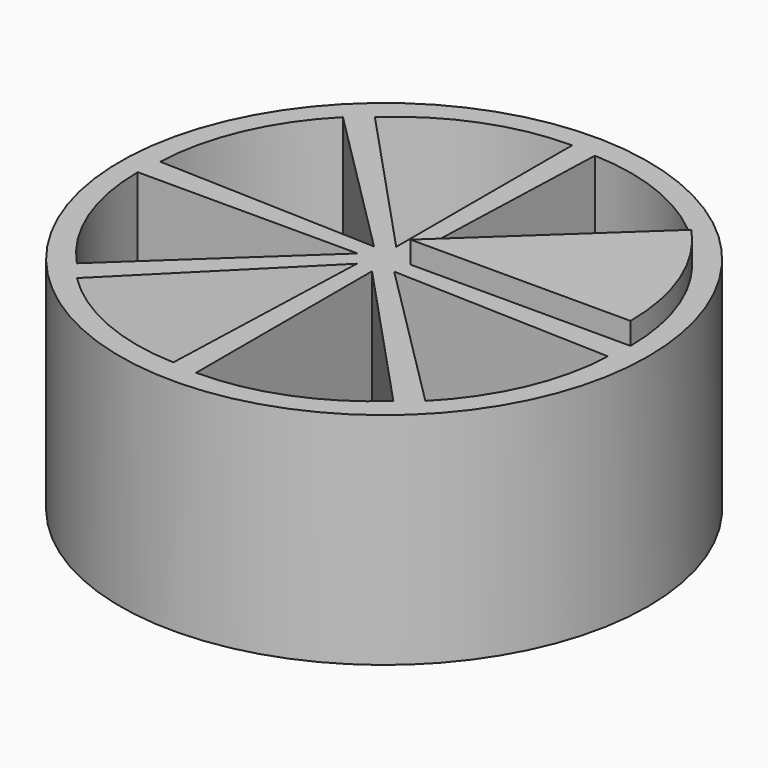
from build123d import *

# Parameters (mm, degrees)
CYLINDER001_W     = 10
CYLINDER001_H     = 10
CYLINDER001_ANGLE = 43
ARRAY_COUNT       = 8
CYLINDER_R        = 12
CYLINDER_DEPTH    = 10
CYLINDER002_W     = 10
CYLINDER002_H     = 10
CYLINDER002_ANGLE = 43


with BuildPart() as array:
    # Cylinder001 → Cylinder001 (revolve)
    with BuildSketch(Plane(origin=(1, 0.25, 1), x_dir=(1, 0, 0), z_dir=(0, -1, 0))):
        with Locations((5, 5)):
            Rectangle(CYLINDER001_W, CYLINDER001_H)
    revolve(axis=Axis((1, 0.25, 1), (0, 0, 1)), revolution_arc=CYLINDER001_ANGLE)

    # Array: Array ×8 about axis
    array_axis = Axis((0, 0, 1), (0, 0, 1))


with BuildPart() as array_1:
    add(array.part)
    for i in range(1, ARRAY_COUNT):
        add(array.part.rotate(array_axis, i * 360 / ARRAY_COUNT))


with BuildPart() as caixa:
    # Cylinder → Cylinder (new body)
    with BuildSketch(Plane.XY):
        Circle(CYLINDER_R)
    extrude(amount=CYLINDER_DEPTH)

    # Cut: cut Array
    add(array_1.part, mode=Mode.SUBTRACT)


with BuildPart() as obj1:
    # Cylinder002 → Cylinder002 (revolve)
    with BuildSketch(Plane(origin=(1, 0.25, 1), x_dir=(1, 0, 0), z_dir=(0, -1, 0))):
        with Locations((5, 5)):
            Rectangle(CYLINDER002_W, CYLINDER002_H)
    revolve(axis=Axis((1, 0.25, 1), (0, 0, 1)), revolution_arc=CYLINDER002_ANGLE)


solid = Compound([caixa.part, obj1.part])
